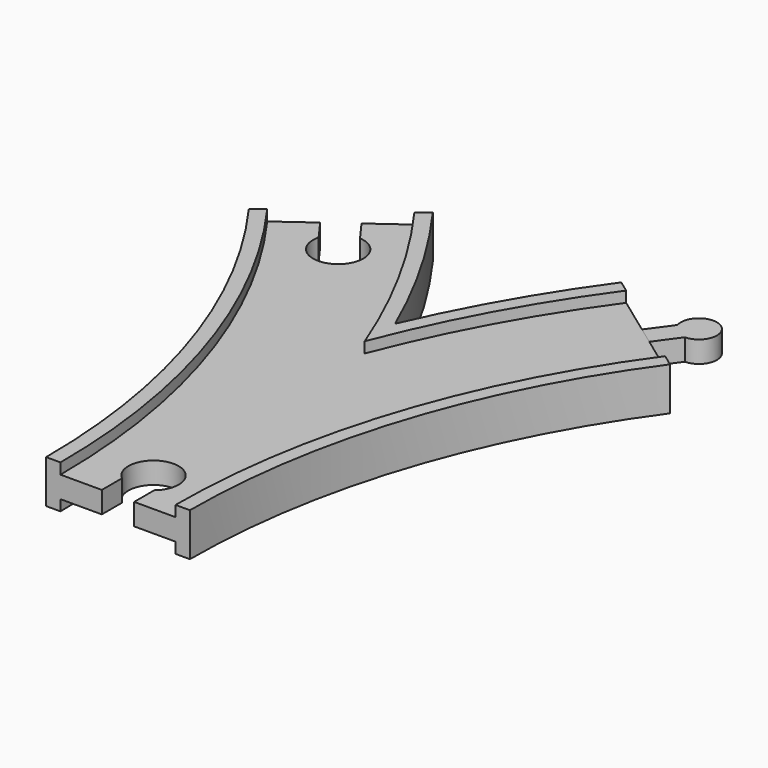
from build123d import *

# Parameters (mm, degrees)
SKETCH013_W          = 32
SKETCH013_H          = 3
POCKET_DEPTH         = 6.001
POCKET_DEPTH_BACK    = -6.001
POCKET001_DEPTH      = 6.001
POCKET001_DEPTH_BACK = -6.001
PAD001_DEPTH         = 3


with BuildPart() as main:
    # AdditivePipe: sweep along a path in Sketch
    with BuildLine(Plane.XY) as additivepipe_path:
        ThreePointArc((0, 0), (-10.865453, 68.601773), (-42.398227, 130.488326))
    # Sketch002 → AdditivePipe (sweep)
    with BuildSketch(Plane.XZ):
        Polygon((-20, 6), (-20, -6), (-16, -6), (-16, -3), (-9, -3), (9, -3), (16, -3), (16, -6), (20, -6), (20, 6), (16, 6), (16, 3), (9, 3), (-9, 3), (-16, 3), (-16, 6), align=None)
    sweep(path=additivepipe_path.line)

    # AdditivePipe001: sweep along a path in Sketch001
    with BuildLine(Plane.XY) as additivepipe001_path:
        ThreePointArc((42.398227, 130.488326), (10.865453, 68.601773), (0, 0))
    # Sketch002 → AdditivePipe001 (sweep)
    with BuildSketch(Plane.XZ):
        Polygon((-20, 6), (-20, -6), (-16, -6), (-16, -3), (-9, -3), (9, -3), (16, -3), (16, -6), (20, -6), (20, 6), (16, 6), (16, 3), (9, 3), (-9, 3), (-16, 3), (-16, 6), align=None)
    sweep(path=additivepipe001_path.line)

    # SubtractivePipe: sweep along a path in Sketch
    with BuildLine(Plane.XY) as subtractivepipe_path:
        ThreePointArc((0, 0), (-10.865453, 68.601773), (-42.398227, 130.488326))
    # Sketch013 (on Face1 of AdditivePipe001) → SubtractivePipe (sweep, cut)
    with BuildSketch(Plane.XZ):
        with Locations((0, 4.5)):
            Rectangle(SKETCH013_W, SKETCH013_H)
    subtractivepipe = sweep(path=subtractivepipe_path.line, mode=Mode.SUBTRACT)

    # SubtractivePipe001: sweep along a path in Sketch001
    with BuildLine(Plane.XY) as subtractivepipe001_path:
        ThreePointArc((42.398227, 130.488326), (10.865453, 68.601773), (0, 0))
    # Sketch013 (on Face1 of AdditivePipe001) → SubtractivePipe001 (sweep, cut)
    with BuildSketch(Plane.XZ):
        with Locations((0, 4.5)):
            Rectangle(SKETCH013_W, SKETCH013_H)
    subtractivepipe001 = sweep(path=subtractivepipe001_path.line, mode=Mode.SUBTRACT)

    # Mirrored: SubtractivePipe across XY
    add(subtractivepipe.mirror(Plane.XY), mode=Mode.SUBTRACT)

    # Mirrored001: SubtractivePipe001 across XY
    add(subtractivepipe001.mirror(Plane.XY), mode=Mode.SUBTRACT)

    # Sketch007 → Pocket (cut, two sides)
    with BuildSketch(Plane.XY) as pocket_sk:
        with BuildLine():
            Line((-4.5, 0), (4.5, 0))
            Line((4.5, 0), (4.5, 7))
            ThreePointArc((4.5, 7), (0, 19.361903), (-4.5, 7))
            Line((-4.5, 0), (-4.5, 7))
        make_face()
    extrude(amount=-POCKET_DEPTH, mode=Mode.SUBTRACT)
    extrude(pocket_sk.sketch, amount=-POCKET_DEPTH_BACK, mode=Mode.SUBTRACT)

    # Sketch008 → Pocket001 (cut, two sides)
    with BuildSketch(Plane.XY) as pocket001_sk:
        with BuildLine():
            Line((-46.038804, 127.843292), (-38.757651, 133.13336))
            Line((-38.757651, 133.13336), (-34.643154, 127.470241))
            ThreePointArc((-41.924307, 122.180173), (-31.017586, 114.824218), (-34.643154, 127.470241))
            Line((-46.038804, 127.843292), (-41.924307, 122.180173))
        make_face()
    extrude(amount=-POCKET001_DEPTH, mode=Mode.SUBTRACT)
    extrude(pocket001_sk.sketch, amount=-POCKET001_DEPTH_BACK, mode=Mode.SUBTRACT)


with BuildPart() as male3:
    # Sketch011 → Pad001 (new body, symmetric)
    with BuildSketch(Plane.XY):
        with BuildLine():
            Line((39.971176, 132.251682), (44.825278, 128.72497))
            Line((44.825278, 128.72497), (49.52756, 135.197106))
            ThreePointArc((49.52756, 135.197106), (52.390577, 144.241615), (44.673458, 138.723818))
            Line((39.971176, 132.251682), (44.673458, 138.723818))
        make_face()
    extrude(amount=PAD001_DEPTH, both=True)


solid = Compound([main.part, male3.part])
